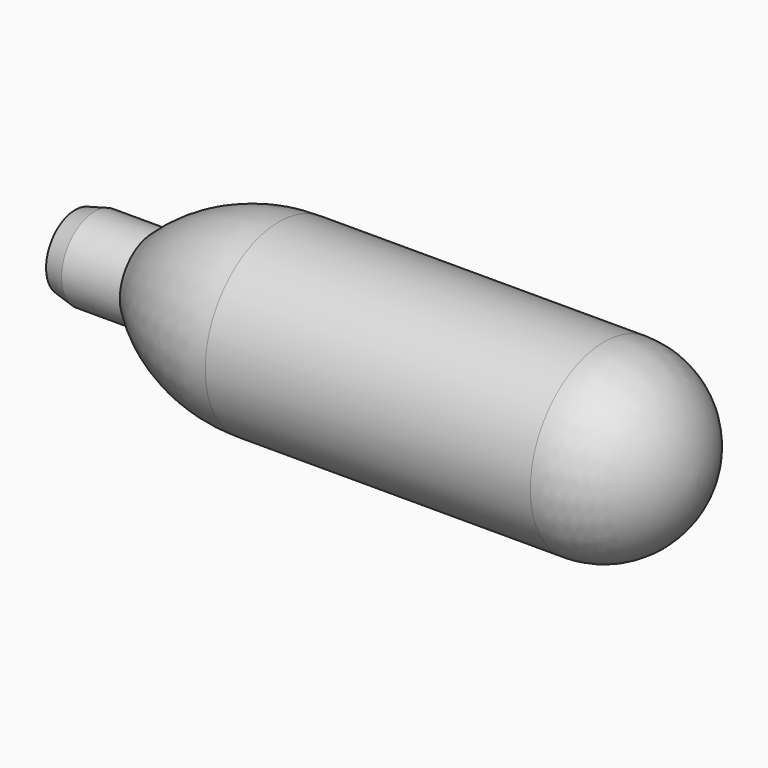
from build123d import *


with BuildPart() as f1:
    # F0 (on Front) → F1 (revolve)
    with BuildSketch(Plane.XZ):
        with BuildLine():
            Line((0, 3.75), (0, 0))
            Line((0, 0), (54.5, 0))
            Line((54.5, 0), (64, 0))
            ThreePointArc((64, 0), (61.217514, 6.717514), (54.5, 9.5))
            Line((54.5, 9.5), (21, 9.5))
            ThreePointArc((21, 9.5), (13.989963, 8.13795), (8, 4.25))
            Line((8, 4.25), (2, 4.25))
            Line((2, 4.25), (0, 3.75))
        make_face()
    revolve(axis=Axis((32, 0, 0), (1, 0, 0)))


solid = f1.part
